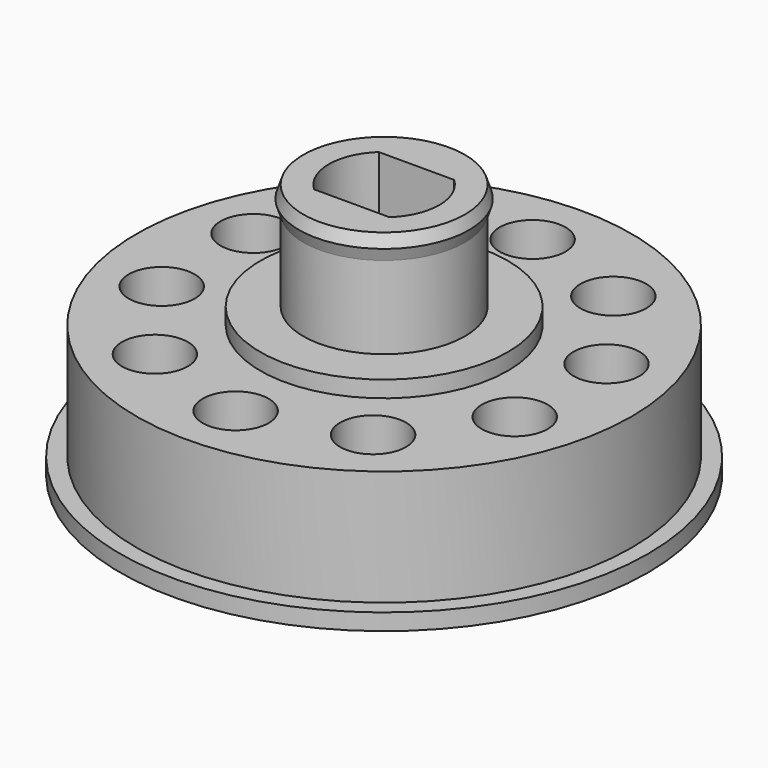
from build123d import *

# Parameters (mm, degrees)
F3_R      = 15
F3_R_2    = 2
F3_R_3    = 7.5
F3_R_4    = 4.9
F4_DEPTH  = 8
F5_DEPTH  = 9
F6_DEPTH  = 15.5
F3_R_5    = 16
F11_DEPTH = 1


with BuildPart() as f4:
    # F3 (on Top) → F4 (new body)
    with BuildSketch(Plane.XY):
        Circle(F3_R)
        with Locations((-6.6125840883, -9.1014411867)):
            Circle(F3_R_2, mode=Mode.SUBTRACT)
        with Locations((-10.6993858083, -3.4764411867)):
            Circle(F3_R_2, mode=Mode.SUBTRACT)
        with Locations((0, -11.25)):
            Circle(F3_R_2, mode=Mode.SUBTRACT)
        with Locations((6.6125840883, -9.1014411867)):
            Circle(F3_R_2, mode=Mode.SUBTRACT)
        with Locations((10.6993858083, -3.4764411867)):
            Circle(F3_R_2, mode=Mode.SUBTRACT)
        with Locations((-10.6993858083, 3.4764411867)):
            Circle(F3_R_2, mode=Mode.SUBTRACT)
        with Locations((-6.6125840883, 9.1014411867)):
            Circle(F3_R_2, mode=Mode.SUBTRACT)
        Circle(F3_R_3, mode=Mode.SUBTRACT)
        with Locations((10.6993858083, 3.4764411867)):
            Circle(F3_R_2, mode=Mode.SUBTRACT)
        with Locations((0, 11.25)):
            Circle(F3_R_2, mode=Mode.SUBTRACT)
        with Locations((6.6125840883, 9.1014411867)):
            Circle(F3_R_2, mode=Mode.SUBTRACT)
        Circle(F3_R_3)
        Circle(F3_R_4, mode=Mode.SUBTRACT)
        Circle(F3_R_4)
        with BuildLine():
            ThreePointArc((-2.2847319318, -2.45), (-3.35, 0), (-2.2847319318, 2.45))
            Line((-2.2847319318, 2.45), (2.2847319318, 2.45))
            ThreePointArc((2.2847319318, 2.45), (3.35, 0), (2.2847319318, -2.45))
            Line((2.2847319318, -2.45), (-2.2847319318, -2.45))
        make_face(mode=Mode.SUBTRACT)
    extrude(amount=F4_DEPTH)

    # F3 (on Top) → F5 (join)
    with BuildSketch(Plane.XY):
        Circle(F3_R_3)
        Circle(F3_R_4, mode=Mode.SUBTRACT)
        Circle(F3_R_4)
        with BuildLine():
            ThreePointArc((-2.2847319318, -2.45), (-3.35, 0), (-2.2847319318, 2.45))
            Line((-2.2847319318, 2.45), (2.2847319318, 2.45))
            ThreePointArc((2.2847319318, 2.45), (3.35, 0), (2.2847319318, -2.45))
            Line((2.2847319318, -2.45), (-2.2847319318, -2.45))
        make_face(mode=Mode.SUBTRACT)
    extrude(amount=F5_DEPTH)

    # F3 (on Top) → F6 (join)
    with BuildSketch(Plane.XY):
        Circle(F3_R_4)
        with BuildLine():
            ThreePointArc((-2.2847319318, -2.45), (-3.35, 0), (-2.2847319318, 2.45))
            Line((-2.2847319318, 2.45), (2.2847319318, 2.45))
            ThreePointArc((2.2847319318, 2.45), (3.35, 0), (2.2847319318, -2.45))
            Line((2.2847319318, -2.45), (-2.2847319318, -2.45))
        make_face(mode=Mode.SUBTRACT)
    extrude(amount=F6_DEPTH)

    # F7 (on Front) → F8 (revolve)
    with BuildSketch(Plane.XZ):
        Polygon((5.15, 14.75), (4.9, 15.5), (4.9, 14), align=None)
    revolve(axis=Axis((0, 0, 8.7542282417), (0, 0, 1)))

    # F3 (on Top) → F11 (join)
    with BuildSketch(Plane.XY):
        Circle(F3_R_5)
        Circle(F3_R, mode=Mode.SUBTRACT)
    extrude(amount=F11_DEPTH)


solid = f4.part
